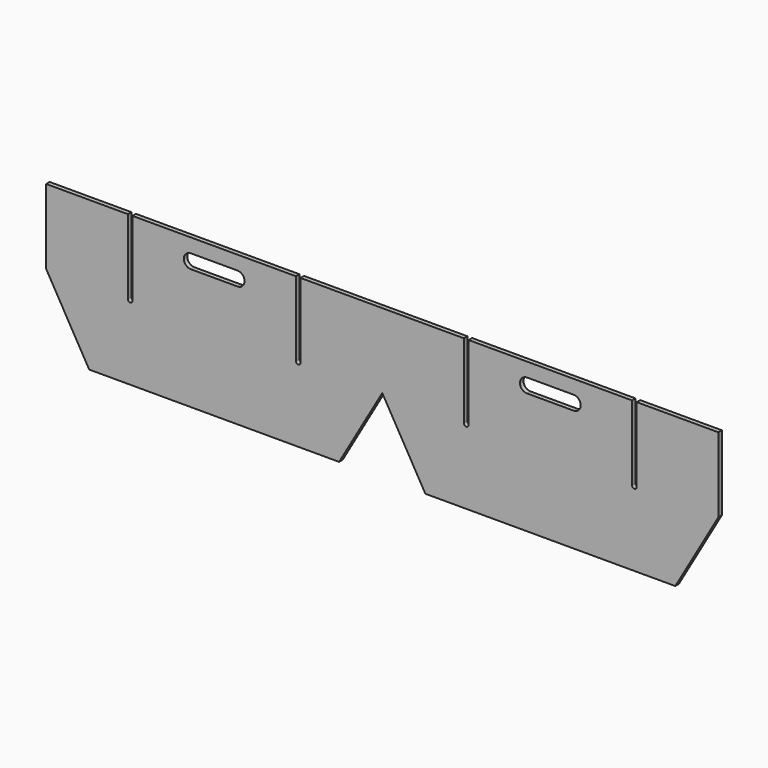
from build123d import *

# Parameters (mm, degrees)
F1_DEPTH = 11.90625


with BuildPart() as f1:
    # F0 (on Front) → F1 (new body)
    with BuildSketch(Plane.XZ):
        with BuildLine():
            Line((0, 203.2), (117.317575, 0))
            Line((117.317575, 0), (797.082425, 0))
            Line((797.082425, 0), (914.4, 203.2))
            Line((914.4, 203.2), (1031.717575, 0))
            Line((1031.717575, 0), (1711.482425, 0))
            Line((1711.482425, 0), (1828.8, 203.2))
            Line((1828.8, 203.2), (1828.8, 406.4))
            Line((1828.8, 406.4), (1606.55, 406.4))
            Line((1606.55, 406.4), (1606.55, 203.2))
            ThreePointArc((1606.55, 203.2), (1600.2, 196.85), (1593.85, 203.2))
            Line((1593.85, 203.2), (1593.85, 406.4))
            Line((1593.85, 406.4), (1149.35, 406.4))
            Line((1149.35, 406.4), (1149.35, 203.2))
            ThreePointArc((1149.35, 203.2), (1142.156388, 196.906287), (1136.874152, 204.872269))
            Line((1136.874152, 204.872269), (1136.874152, 406.4))
            Line((1136.874152, 406.4), (914.4, 406.4))
            Line((914.4, 406.4), (691.925848, 406.4))
            Line((691.925848, 406.4), (691.925848, 204.872269))
            ThreePointArc((691.925848, 204.872269), (686.643612, 196.906287), (679.45, 203.2))
            Line((679.45, 203.2), (679.45, 406.4))
            Line((679.45, 406.4), (234.95, 406.4))
            Line((234.95, 406.4), (234.95, 203.2))
            ThreePointArc((234.95, 203.2), (228.6, 196.85), (222.25, 203.2))
            Line((222.25, 203.2), (222.25, 406.4))
            Line((222.25, 406.4), (0, 406.4))
            Line((0, 406.4), (0, 203.2))
        make_face()
        with BuildLine():
            Line((393.7, 368.3), (457.2, 368.3))
            Line((457.2, 368.3), (520.7, 368.3))
            ThreePointArc((520.7, 368.3), (539.75, 349.25), (520.7, 330.2))
            Line((520.7, 330.2), (457.2, 330.2))
            Line((457.2, 330.2), (393.7, 330.2))
            ThreePointArc((393.7, 330.2), (374.65, 349.25), (393.7, 368.3))
        make_face(mode=Mode.SUBTRACT)
        with BuildLine():
            Line((1308.1, 368.3), (1371.6, 368.3))
            Line((1371.6, 368.3), (1435.1, 368.3))
            ThreePointArc((1435.1, 368.3), (1454.15, 349.25), (1435.1, 330.2))
            Line((1435.1, 330.2), (1371.6, 330.2))
            Line((1371.6, 330.2), (1308.1, 330.2))
            ThreePointArc((1308.1, 330.2), (1289.05, 349.25), (1308.1, 368.3))
        make_face(mode=Mode.SUBTRACT)
    extrude(amount=F1_DEPTH)


solid = f1.part
